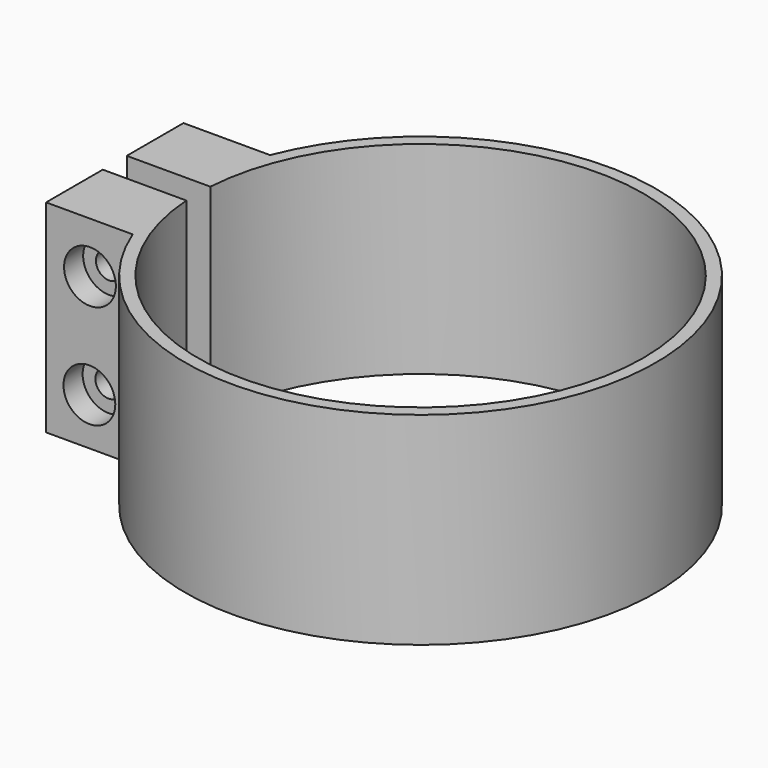
from build123d import *

# Parameters (mm, degrees)
F1_DEPTH       = 25.4
F3_D           = 3.3
F3_CBORE_D     = 6.5
F3_CBORE_DEPTH = 3
F5_DEPTH       = 5


with BuildPart() as f1:
    # F0 (on Top) → F1 (new body)
    with BuildSketch(Plane.XY):
        with BuildLine():
            ThreePointArc((-27.8767053979, 1.8796), (27.94, 0), (-27.8767053979, -1.8796))
            Line((-27.8767053979, -1.8796), (-29.4676154463, -1.8796))
            Line((-29.4676154463, -1.8796), (-38.3576154463, -1.8796))
            Line((-38.3576154463, -1.8796), (-38.3576154463, -10.7696))
            Line((-38.3576154463, -10.7696), (-29.4676154463, -10.7696))
            Line((-29.4676154463, -10.7696), (-27.4934350726, -10.7696))
            ThreePointArc((-27.4934350726, -10.7696), (29.5275, 0), (-27.4934350726, 10.7696))
            Line((-27.4934350726, 10.7696), (-29.4676154463, 10.7696))
            Line((-29.4676154463, 10.7696), (-38.3576154463, 10.7696))
            Line((-38.3576154463, 10.7696), (-38.3576154463, 1.8796))
            Line((-38.3576154463, 1.8796), (-29.4676154463, 1.8796))
            Line((-29.4676154463, 1.8796), (-27.8767053979, 1.8796))
        make_face()
    extrude(amount=F1_DEPTH)

    # F3 (through all)
    with Locations(Plane.XZ.offset(10.7696)):
        with Locations((-32.8522585332, 18.9988464117), (-32.9255252594, 5.9281084687)):
            CounterBoreHole(F3_D / 2, F3_CBORE_D / 2, F3_CBORE_DEPTH)

    # F4 (on face) → F5 (cut)
    with BuildSketch(Plane(origin=(0, 10.7696, 0), x_dir=(-1, 0, 0), z_dir=(0, 1, 0))):
        Polygon((34.6081861546, 15.6860156038), (36.599217982, 18.8631089351), (34.8432903606, 22.175939743), (31.0963309118, 22.3116772196), (29.1052990845, 19.1345838883), (30.8612267059, 15.8217530804), align=None)
        Polygon((36.7005912762, 5.7845558547), (34.9446636548, 9.0973866626), (31.197704206, 9.2331241392), (29.2066723786, 6.0560308079), (30.9626, 2.7432), (34.7095594488, 2.6074625234), align=None)
    extrude(amount=-F5_DEPTH, mode=Mode.SUBTRACT)


solid = f1.part
